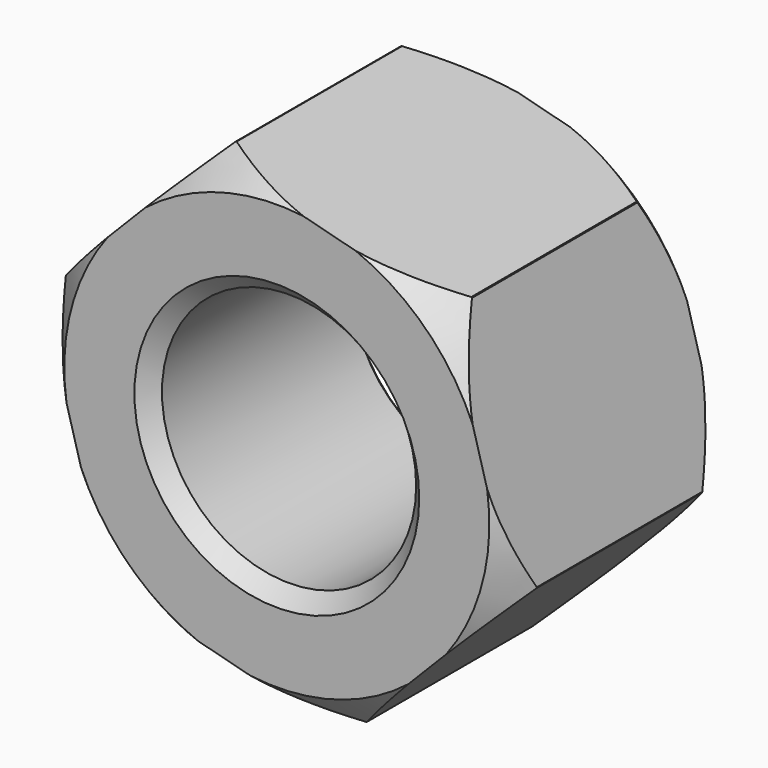
from build123d import *

# Parameters (mm, degrees)
F0_R     = 40.327916
F0_R_2   = 21.082
F1_DEPTH = 44.45
F2_SIZE  = 2.54
F3_SIZE  = 5.08
F4_R     = 69.994365
F5_DEPTH = 44.451


with BuildPart() as f1:
    # F0 (on Front) → F1 (new body)
    with BuildSketch(Plane.XZ):
        Circle(F0_R)
        Circle(F0_R_2, mode=Mode.SUBTRACT)
    extrude(amount=F1_DEPTH)

    # F2
    f2_edges = [f1.edges().sort_by_distance(p)[0] for p in [
        (21.082, -22.225, 0),
        (-21.082, 0, 0),
        (-21.082, -44.45, 0),
    ]]
    chamfer(f2_edges, length=F2_SIZE)

    # F3
    f3_edges = [f1.edges().sort_by_distance(p)[0] for p in [
        (40.327916, -22.225, 0),
        (-40.327916, 0, 0),
        (-40.327916, -44.45, 0),
    ]]
    chamfer(f3_edges, length=F3_SIZE)

    # F4 (on Front) → F5 (cut, through all)
    with BuildSketch(Plane.XZ):
        Circle(F4_R)
        Polygon((28.276404, 28.815554), (39.093203, -10.080307), (10.8168, -38.895861), (-28.276404, -28.815554), (-39.093203, 10.080307), (-10.8168, 38.895861), align=None, mode=Mode.SUBTRACT)
    extrude(amount=F5_DEPTH, mode=Mode.SUBTRACT)


solid = f1.part
